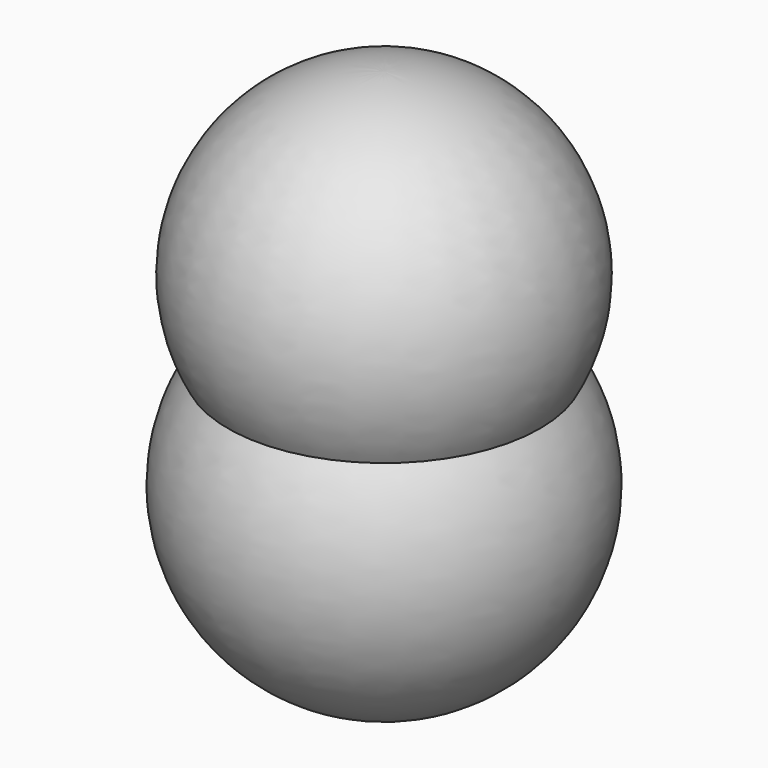
from build123d import *


with BuildPart() as f1:
    # F0 (on Front) → F1 (revolve)
    with BuildSketch(Plane.XZ):
        with BuildLine():
            Line((0, 35.457928), (0, -35.457928))
            ThreePointArc((0, -35.457928), (31.113928, -17.005532), (29.844322, 19.146308))
            ThreePointArc((29.844322, 19.146308), (29.253445, 52.806947), (0, 69.468992))
            Line((0, 69.468992), (0, 35.457928))
        make_face()
    revolve(axis=Axis((0, 0, 16.042361), (0, 0, -1)))


solid = f1.part
